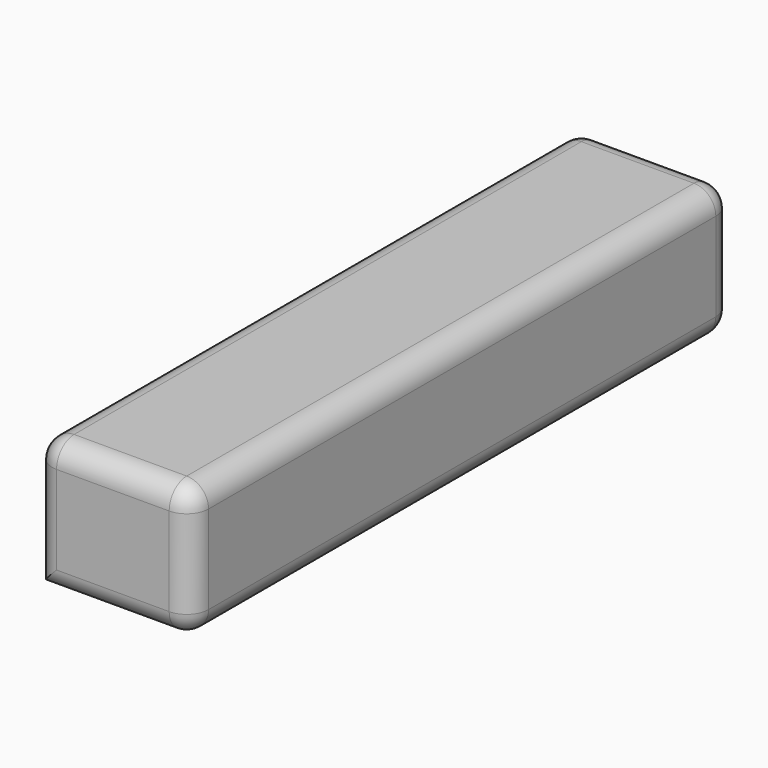
from build123d import *

# Parameters (mm, degrees)
F0_W     = 36.322
F0_H     = 157.48
F1_DEPTH = 30.734
F2_R     = 5.08


with BuildPart() as f1:
    # F0 (on Top) → F1 (new body)
    with BuildSketch(Plane.XY):
        with Locations((-35.529498, 14.489323)):
            Rectangle(F0_W, F0_H)
    extrude(amount=F1_DEPTH)

    # F2
    f2_edges = [f1.edges().sort_by_distance(p)[0] for p in [
        (-53.690498, -64.250677, 15.367),
        (-17.368498, -64.250677, 15.367),
        (-35.529498, -64.250677, 0),
        (-35.529498, -64.250677, 30.734),
        (-17.368498, 93.229323, 15.367),
        (-53.690498, 93.229323, 15.367),
        (-35.529498, 93.229323, 30.734),
        (-35.529498, 93.229323, 0),
        (-53.690498, 14.489323, 30.734),
        (-17.368498, 14.489323, 30.734),
        (-17.368498, 14.489323, 0),
    ]]
    fillet(f2_edges, radius=F2_R)


solid = f1.part
